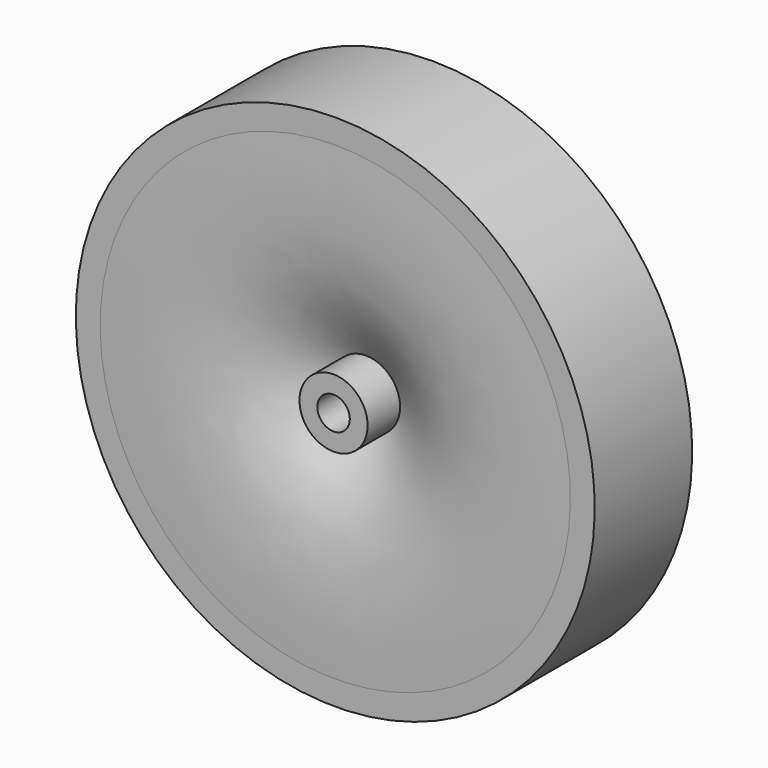
from build123d import *

# Parameters (mm, degrees)
F0_W = 30
F0_H = 6


with BuildPart() as f1:
    # F0 (on Right) → F1 (revolve)
    with BuildSketch(Plane.YZ):
        with Locations((0, 72.20824)):
            Rectangle(F0_W, F0_H)
        with BuildLine():
            add(Edge.make_bspline(
                [(15, 69.20824), (16.092926, 41.705586), (13.992182, 34.934796), (5.528692, 19.70051)],
                knots=[0, 0, 0, 0, 50.405565, 50.405565, 50.405565, 50.405565], degree=3))
            Line((15, 69.20824), (-15, 69.20824))
            add(Edge.make_bspline(
                [(-15, 69.20824), (-16.092926, 41.705586), (-13.992182, 34.934796), (-5.528692, 19.70051)],
                knots=[0, 0, 0, 0, 50.405565, 50.405565, 50.405565, 50.405565], degree=3))
            Line((-5.528692, 19.70051), (-15.528692, 19.70051))
            Line((-15.528692, 19.70051), (-15.528692, 15.316343))
            Line((-15.528692, 15.316343), (-5.568251, 15.316343))
            Line((-5.568251, 15.316343), (5.568251, 15.316343))
            Line((5.568251, 15.316343), (15.528692, 15.316343))
            Line((15.528692, 15.316343), (15.528692, 19.70051))
            Line((15.528692, 19.70051), (5.528692, 19.70051))
        make_face()
    revolve(axis=Axis((0, 16.006559, 11.316343), (0, 1, 0)))


solid = f1.part
